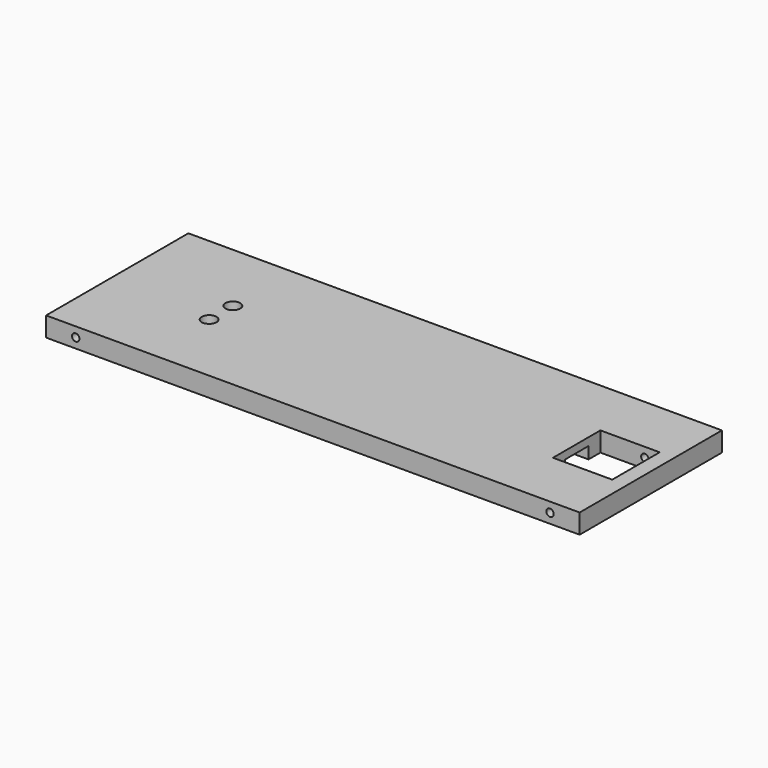
from build123d import *

# Parameters (mm, degrees)
F0_W     = 228.6
F0_H     = 8.382
F1_DEPTH = 76.2
F2_R     = 1.5875
F3_DEPTH = 76.201
F4_W     = 25.4
F4_H     = 25.4
F4_R     = 3.175
F5_DEPTH = 8.383
F6_W     = 114.3
F6_H     = 12.7
F7_DEPTH = 5.08


with BuildPart() as f1:
    # F0 (on Front) → F1 (new body)
    with BuildSketch(Plane.XZ):
        with Locations((114.3, 4.191)):
            Rectangle(F0_W, F0_H)
    extrude(amount=F1_DEPTH)

    # F2 (on face) → F3 (cut, through all)
    with BuildSketch(Plane.XZ.offset(76.2)):
        with Locations((12.7, 4.191)):
            Circle(F2_R)
        with Locations((215.9, 4.191)):
            Circle(F2_R)
    extrude(amount=-F3_DEPTH, mode=Mode.SUBTRACT)

    # F4 (on face) → F5 (cut, through all)
    with BuildSketch(Plane.XY.offset(8.382)):
        with Locations((209.55, -38.1)):
            Rectangle(F4_W, F4_H)
        with Locations((44.45, -31.75)):
            Circle(F4_R)
        with Locations((44.45, -44.45)):
            Circle(F4_R)
    extrude(amount=-F5_DEPTH, mode=Mode.SUBTRACT)

    # F6 (on face) → F7 (cut)
    with BuildSketch(Plane(origin=(0, 0, 0), x_dir=(1, 0, 0), z_dir=(0, 0, -1))):
        with Locations((139.7, 38.1)):
            Rectangle(F6_W, F6_H)
    extrude(amount=-F7_DEPTH, mode=Mode.SUBTRACT)


solid = f1.part
